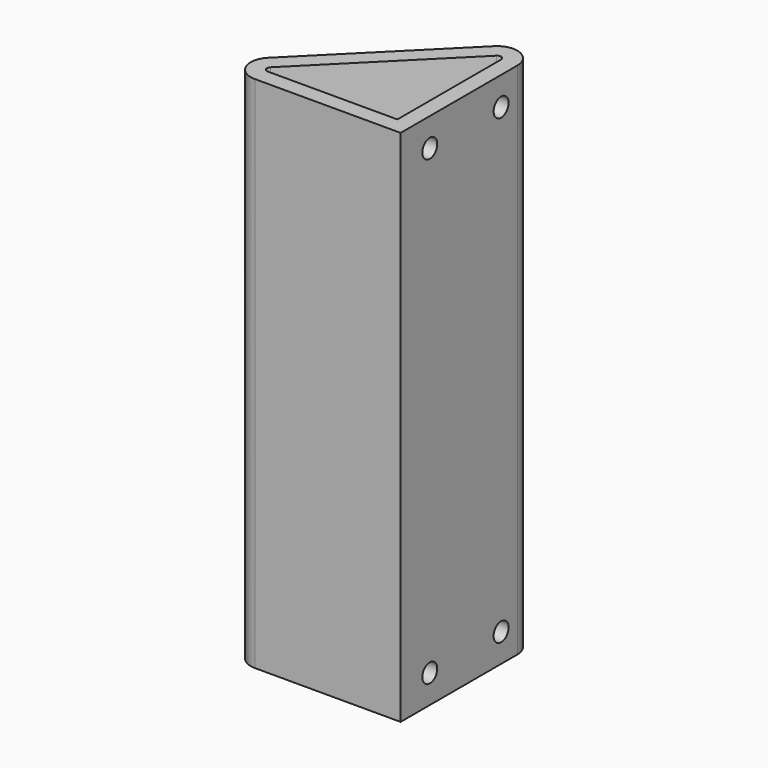
from build123d import *

# Parameters (mm, degrees)
F1_DEPTH = 101.6
F2_R     = 1.8288
F3_DEPTH = 3.175


with BuildPart() as f1:
    # F0 (on Top) → F1 (new body)
    with BuildSketch(Plane.XY):
        with BuildLine():
            Line((29.136266, -4.530016), (29.136266, 24.044984))
            ThreePointArc((29.136266, 24.044984), (26.686291, 27.711631), (22.361186, 26.851314))
            Line((22.361186, 26.851314), (-2.245064, 2.245064))
            ThreePointArc((-2.245064, 2.245064), (-3.105381, -2.080041), (0.561266, -4.530016))
            Line((0.561266, -4.530016), (29.136266, -4.530016))
        make_face()
        with BuildLine():
            Line((25.961266, -1.355016), (0.561266, -1.355016))
            ThreePointArc((0.561266, -1.355016), (-0.172063, -0.865021), (0, 0))
            Line((0, 0), (24.60625, 24.60625))
            ThreePointArc((24.60625, 24.60625), (25.471271, 24.778313), (25.961266, 24.044984))
            Line((25.961266, 24.044984), (25.961266, -1.355016))
        make_face(mode=Mode.SUBTRACT)
    extrude(amount=F1_DEPTH)

    # F2 (on face) → F3 (cut, through all)
    with BuildSketch(Plane(origin=(25.961266, 0, 0), x_dir=(0, -1, 0), z_dir=(-1, 0, 0))):
        with Locations((-20.076234, 5.55625)):
            Circle(F2_R)
        with Locations((-2.613734, 5.55625)):
            Circle(F2_R)
        with Locations((-2.613734, 96.04375)):
            Circle(F2_R)
        with Locations((-20.076234, 96.04375)):
            Circle(F2_R)
    extrude(amount=-F3_DEPTH, mode=Mode.SUBTRACT)


solid = f1.part
